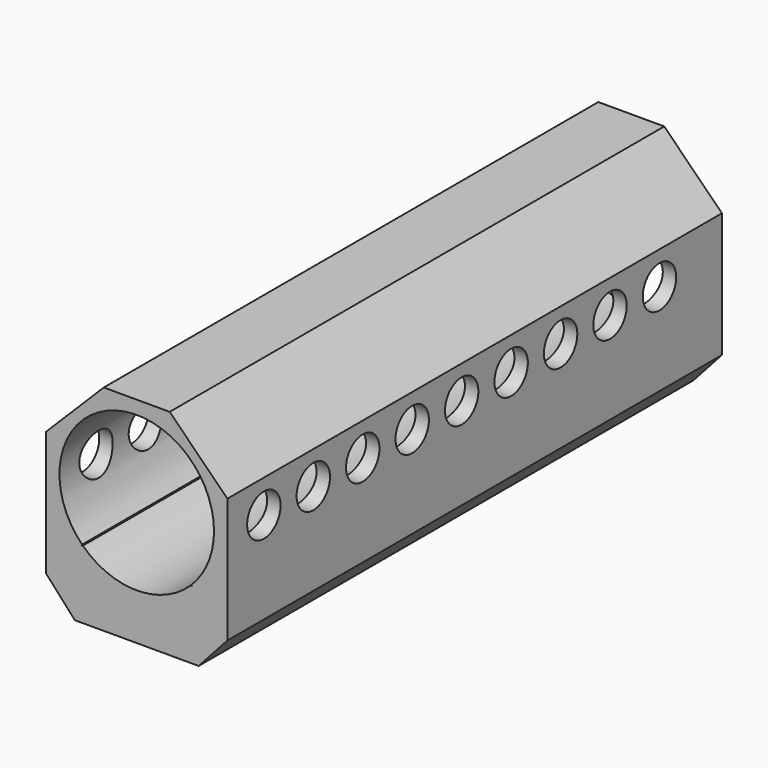
from build123d import *

# Parameters (mm, degrees)
F1_DEPTH = 100
F3_D     = 6.7564
F4_D     = 6.7564


with BuildPart() as f1:
    # F0 (on Front) → F1 (new body)
    with BuildSketch(Plane.XZ):
        Polygon((-10.01964, -20), (10.01964, -20), (14.665275, -14.861985), (14.665275, 5.334725), (5.334725, 14.665275), (-5.334725, 14.665275), (-14.665275, 5.334725), (-14.665275, -14.861985), align=None)
        with BuildLine():
            ThreePointArc((-8.838835, -8.838835), (-4.783543, 11.548494), (12.5, 0))
            ThreePointArc((12.5, 0), (11.548494, -4.783543), (8.838835, -8.838835))
            Line((8.838835, -8.838835), (8.961845, -8.961845))
            Line((8.961845, -8.961845), (8.714088, -8.961845))
            ThreePointArc((8.714088, -8.961845), (0, -12.5), (-8.714088, -8.961845))
            Line((-8.714088, -8.961845), (-8.961845, -8.961845))
            Line((-8.961845, -8.961845), (-8.838835, -8.838835))
        make_face(mode=Mode.SUBTRACT)
    extrude(amount=F1_DEPTH)

    # F3 (through all)
    with Locations(Plane.YZ):
        with Locations((-92.625253, 0), (-82.625253, 0), (-72.625253, 0), (-62.625253, 0), (-52.625253, 0), (-42.625253, 0), (-32.625253, 0), (-22.625253, 0), (-12.625253, 0)):
            Hole(F3_D / 2)

    # F4 (through all)
    with Locations(Plane(origin=(0, 0, 0), x_dir=(0, 1, 0), z_dir=(-1, 0, 0))):
        with Locations((-92.625253, 0), (-82.625253, 0), (-72.625253, 0), (-62.625253, 0), (-52.625253, 0), (-42.625253, 0), (-32.625253, 0), (-22.625253, 0), (-12.625253, 0)):
            Hole(F4_D / 2)


solid = f1.part
